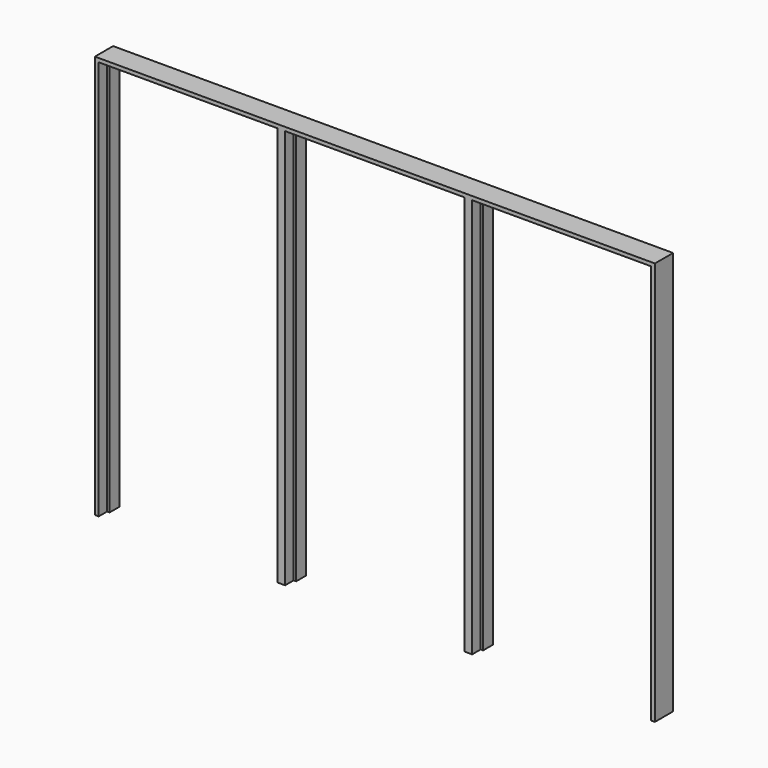
from build123d import *

# Parameters (mm, degrees)
F3_DEPTH      = 61.9125
F5_DEPTH      = 50.8
F5_DEPTH_BACK = 3.175


with BuildPart() as f3:
    # F2 (on offset) → F3 (new body)
    with BuildSketch(Plane.XZ.offset(-3.175)):
        Polygon((0, 2035.175), (0, 0), (19.05, 0), (31.75, 0), (31.75, 2022.475), (917.575, 2022.475), (917.575, 0), (930.275, 0), (949.325, 0), (968.375, 0), (981.075, 0), (981.075, 2022.475), (1869.28125, 2022.475), (1869.28125, 0), (1881.98125, 0), (1901.03125, 0), (1920.08125, 0), (1932.78125, 0), (1932.78125, 2022.475), (2818.60625, 2022.475), (2818.60625, 0), (2831.30625, 0), (2850.35625, 0), (2850.35625, 2035.175), (2850.35625, 2054.225), (0, 2054.225), align=None)
    extrude(amount=-F3_DEPTH)

    # F4 (on Front) → F5 (join, two sides)
    with BuildSketch(Plane.XZ) as f5_sk:
        Polygon((0, 2035.175), (0, 0), (19.05, 0), (19.05, 2022.475), (19.05, 2035.175), (930.275, 2035.175), (930.275, 0), (949.325, 0), (968.375, 0), (968.375, 2035.175), (1881.98125, 2035.175), (1881.98125, 2022.475), (1881.98125, 0), (1901.03125, 0), (1920.08125, 0), (1920.08125, 2022.475), (1920.08125, 2035.175), (2831.30625, 2035.175), (2831.30625, 2022.475), (2831.30625, 0), (2850.35625, 0), (2850.35625, 2035.175), (2850.35625, 2054.225), (0, 2054.225), align=None)
    extrude(amount=F5_DEPTH)
    extrude(f5_sk.sketch, amount=-F5_DEPTH_BACK)


solid = f3.part
